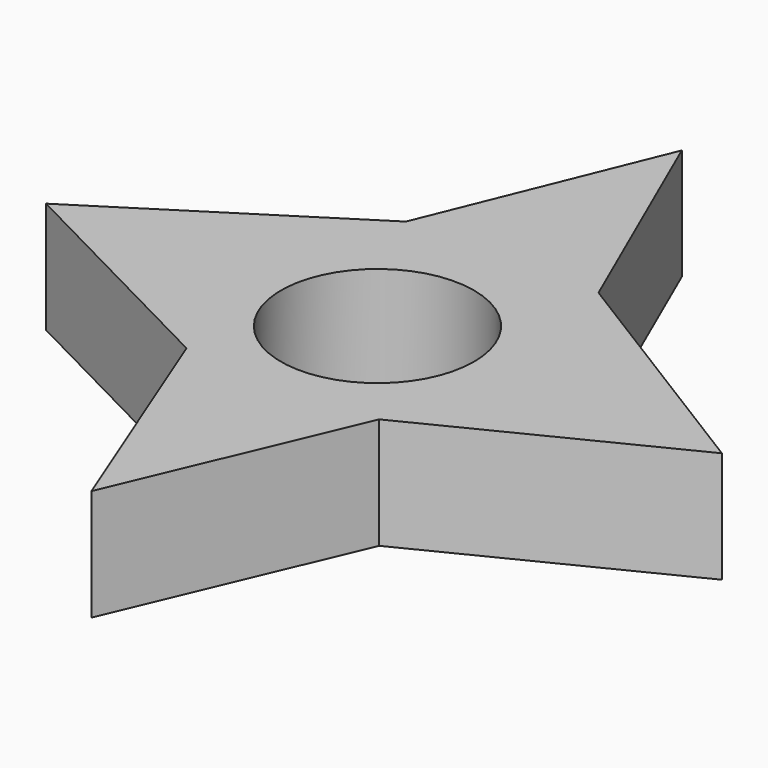
from build123d import *

# Parameters (mm, degrees)
F0_R     = 8.5
F1_DEPTH = 9.8


with BuildPart() as f1:
    # F0 (on Top) → F1 (new body)
    with BuildSketch(Plane.XY):
        Polygon((30.321628, 0), (8.765968, 13.364508), (0, 33.483122), (-8.191151, 13.364508), (-29.171988, 0), (-8.191151, -10.777828), (0, -31.47126), (8.765968, -10.777828), align=None)
        Circle(F0_R, mode=Mode.SUBTRACT)
    extrude(amount=F1_DEPTH)


solid = f1.part
